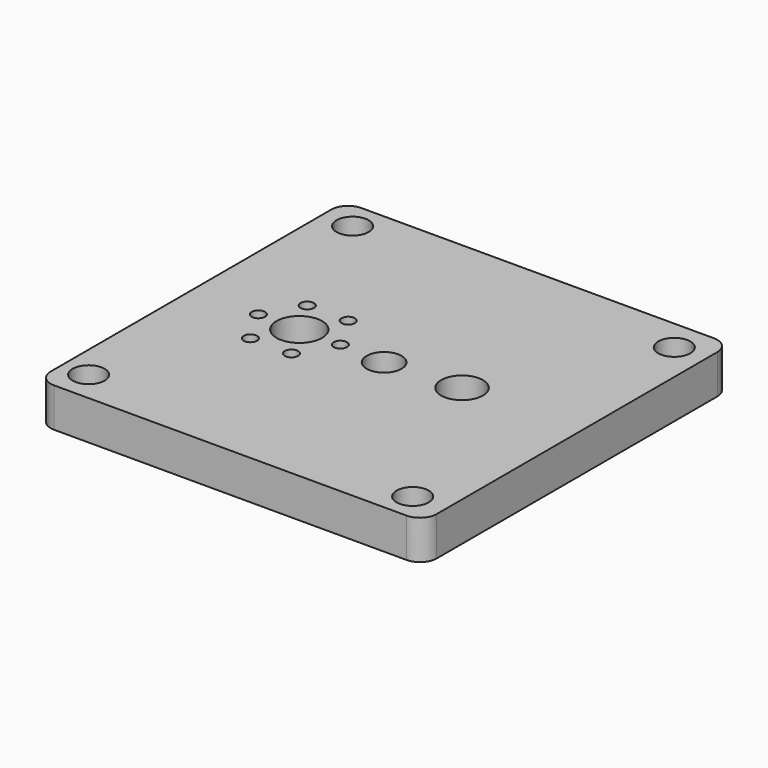
from build123d import *

# Parameters (mm, degrees)
F0_R     = 5.275
F0_R_2   = 5.75
F0_R_3   = 7.5
F0_R_4   = 6.875
F1_DEPTH = 12.85
F2_R     = 44.65
F2_R_2   = 41.275
F3_DEPTH = 1.91
F4_R     = 2.2
F5_DEPTH = 7


with BuildPart() as f1:
    # F0 (on Top) → F1 (new body)
    with BuildSketch(Plane.XY):
        with BuildLine():
            ThreePointArc((63.45, 57.65), (61.8390872965, 61.5390872965), (57.95, 63.15))
            Line((57.95, 63.15), (-57.95, 63.15))
            ThreePointArc((-57.95, 63.15), (-61.8390872965, 61.5390872965), (-63.45, 57.65))
            Line((-63.45, 57.65), (-63.45, -57.65))
            ThreePointArc((-63.45, -57.65), (-61.8390872965, -61.5390872965), (-57.95, -63.15))
            Line((-57.95, -63.15), (57.95, -63.15))
            ThreePointArc((57.95, -63.15), (61.8390872965, -61.5390872965), (63.45, -57.65))
            Line((63.45, -57.65), (63.45, 57.65))
        make_face()
        with Locations((-54.725, -52.975)):
            Circle(F0_R, mode=Mode.SUBTRACT)
        with Locations((52.525, -53.875)):
            Circle(F0_R, mode=Mode.SUBTRACT)
        with Locations((0.2, -0.2)):
            Circle(F0_R_2, mode=Mode.SUBTRACT)
        with Locations((-28.2, 0.45)):
            Circle(F0_R_3, mode=Mode.SUBTRACT)
        with Locations((-53.425, 53.875)):
            Circle(F0_R, mode=Mode.SUBTRACT)
        with Locations((24.675, 1.225)):
            Circle(F0_R_4, mode=Mode.SUBTRACT)
        with Locations((53.175, 52.825)):
            Circle(F0_R, mode=Mode.SUBTRACT)
    extrude(amount=F1_DEPTH)

    # F2 (on face) → F3 (cut)
    with BuildSketch(Plane(origin=(0, 0, 0), x_dir=(1, 0, 0), z_dir=(0, 0, -1))):
        with Locations((0.1, -0.6)):
            Circle(F2_R)
        with Locations((0.1, -0.6)):
            Circle(F2_R_2, mode=Mode.SUBTRACT)
    extrude(amount=-F3_DEPTH, mode=Mode.SUBTRACT)

    # F4 (on face) → F5 (cut)
    with BuildSketch(Plane.XY.offset(12.85)):
        with Locations((-21.46, 12.124022443)):
            Circle(F4_R)
        with Locations((-34.94, 12.124022443)):
            Circle(F4_R)
        with Locations((-41.68, 0.45)):
            Circle(F4_R)
        with Locations((-34.94, -11.224022443)):
            Circle(F4_R)
        with Locations((-21.46, -11.224022443)):
            Circle(F4_R)
        with Locations((-14.72, 0.45)):
            Circle(F4_R)
    extrude(amount=-F5_DEPTH, mode=Mode.SUBTRACT)


solid = f1.part
